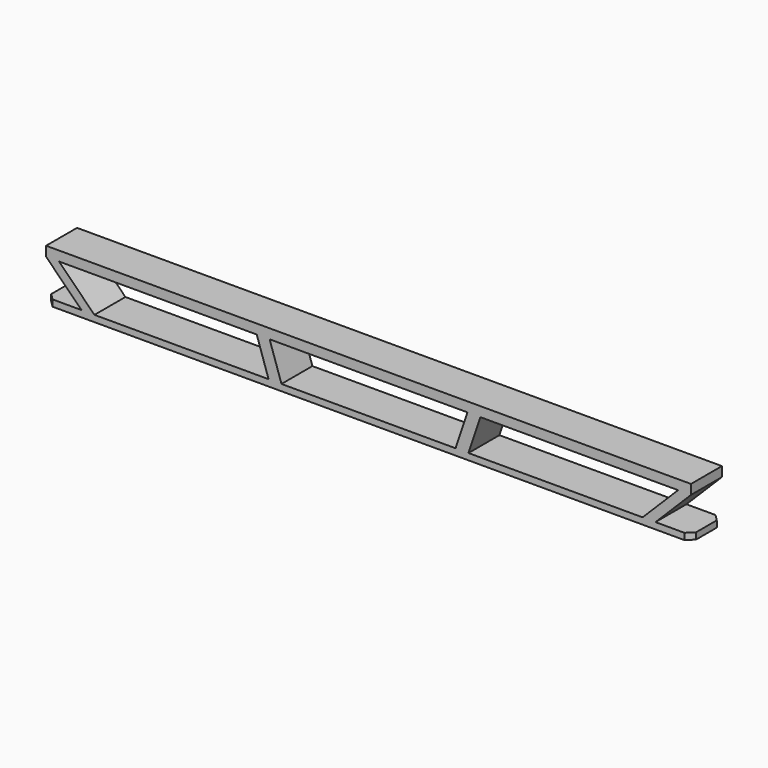
from build123d import *

# Parameters (mm, degrees)
SKETCH_W     = 100
SKETCH_H     = 6
PAD_DEPTH    = 1
CHAMFER_SIZE = 1
PAD001_DEPTH = 3


with BuildPart() as chamfer_body:
    # Sketch → Pad (new body)
    with BuildSketch(Plane.XY):
        Rectangle(SKETCH_W, SKETCH_H)
    extrude(amount=PAD_DEPTH)

    # Chamfer
    chamfer_edges = [chamfer_body.edges().sort_by_distance(p)[0] for p in [
        (-50, 3, 0.5),
        (-50, -3, 0.5),
        (50, 3, 0.5),
        (50, -3, 0.5),
    ]]
    chamfer(chamfer_edges, length=CHAMFER_SIZE)


with BuildPart() as fusion:
    # Sketch001 → Pad001 (new body, symmetric)
    with BuildSketch(Plane.XZ):
        Polygon((-50, 8), (-50, 6.5), (-43.5, 0), (43.5, 0), (50, 6.5), (50, 8), align=None)
        Polygon((-42.5, 1), (-48, 6.5), (-17.333333, 6.5), (-15.5, 1), align=None, mode=Mode.SUBTRACT)
        Polygon((48, 6.5), (42.5, 1), (15.5, 1), (17.333333, 6.5), align=None, mode=Mode.SUBTRACT)
        Polygon((-13.5, 1), (-15.333333, 6.5), (15.333333, 6.5), (13.5, 1), align=None, mode=Mode.SUBTRACT)
    extrude(amount=PAD001_DEPTH, both=True)

    # Fusion: union Chamfer body
    add(chamfer_body.part)


solid = fusion.part
